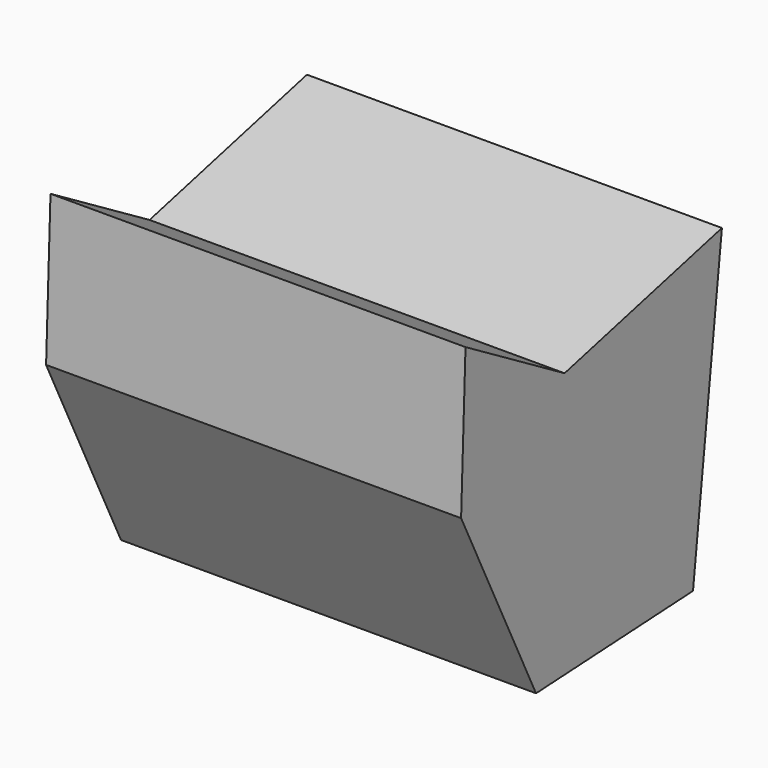
from build123d import *

# Parameters (mm, degrees)
F2_DEPTH = 64.478658


with BuildPart() as f2:
    # F1 (on face) → F2 (new body)
    with BuildSketch(Plane.YZ):
        Polygon((30.557144, 59.066296), (0, 51.617414), (-19.239661, 63.016182), (-20.095591, 39.965741), (-5.539023, 10.089733), (24.94307, 11.708565), align=None)
    extrude(amount=F2_DEPTH)


solid = f2.part
